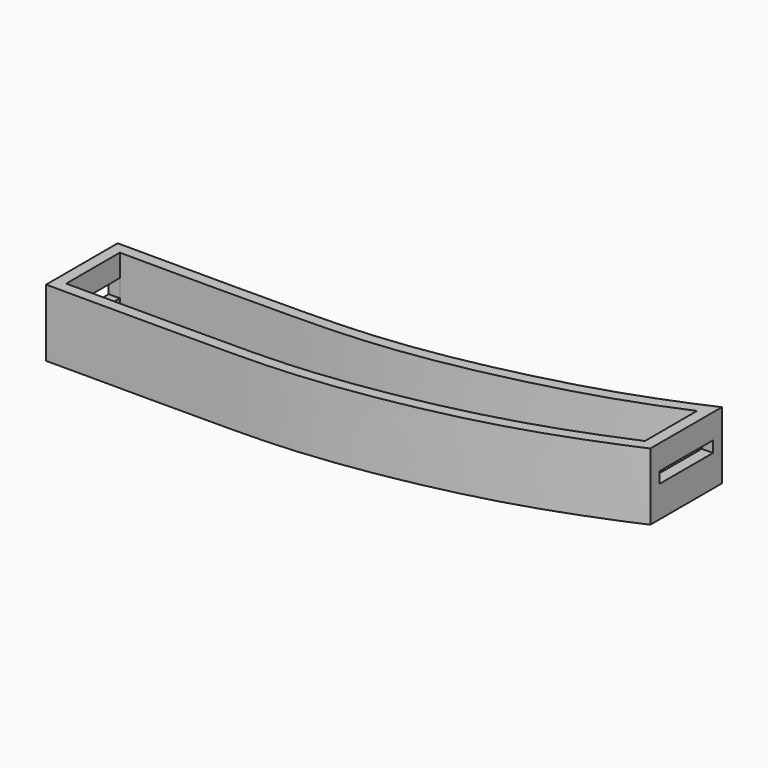
from build123d import *

# Parameters (mm, degrees)
F1_DEPTH = 15
F2_T     = -2.5
F3_W     = 15
F3_H     = 4
F4_DEPTH = 2.5
F5_W     = 15
F5_H     = 2.5
F6_DEPTH = 2.5


with BuildPart() as f1:
    # F0 (on Top) → F1 (new body)
    with BuildSketch(Plane.XY):
        with BuildLine():
            add(Edge.make_bspline(
                [(0, 20), (26.7232054333, 19.8184425013), (27.1059169992, 20.1073908233), (52.679170319, 19.8610060675), (74.879722297, 22.6816028209), (102.0137306283, 29.4652239797), (115.5423223972, 35.0360646844), (121, 37.5)],
                knots=[0, 0, 0, 0, 0.2310258447, 0.4063525565, 0.6037669796, 0.8179426842, 1, 1, 1, 1], degree=3))
            Line((0, 20), (0, 0))
            add(Edge.make_bspline(
                [(0, 0), (18.4547173064, -0.1253374525), (29.9900721086, 0.0975745066), (51.8493286736, -0.1601969618), (75.3784279955, 2.7972650003), (100.9674350203, 9.0186773186), (117.3319965601, 15.8467441797), (121, 17.5)],
                knots=[0, 0, 0, 0, 0.2310258447, 0.4063525565, 0.6037669796, 0.8179426842, 1, 1, 1, 1], degree=3))
            Line((121, 17.5), (121, 37.5))
        make_face()
    extrude(amount=F1_DEPTH)

    # F2
    f2_openings = [f1.faces().sort_by_distance(p)[0] for p in [
        (60.510015, 13.844653, 15),
    ]]
    offset(amount=F2_T, openings=f2_openings, kind=Kind.INTERSECTION)

    # F3 (on face) → F4 (cut, through all)
    with BuildSketch(Plane(origin=(0, 0, 0), x_dir=(0, -1, 0), z_dir=(-1, 0, 0))):
        with Locations((-10, 8)):
            Rectangle(F3_W, F3_H)
    extrude(amount=-F4_DEPTH, mode=Mode.SUBTRACT)

    # F5 (on face) → F6 (cut, through all)
    with BuildSketch(Plane.YZ.offset(121)):
        with Locations((27.5, 8.25)):
            Rectangle(F5_W, F5_H)
    extrude(amount=-F6_DEPTH, mode=Mode.SUBTRACT)


solid = f1.part
